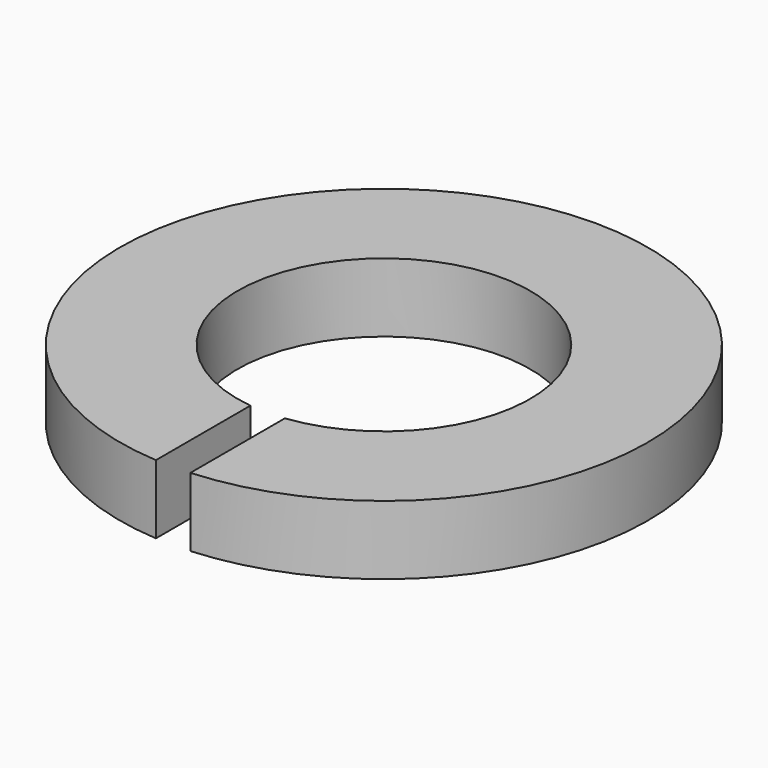
from build123d import *

# Parameters (mm, degrees)
PAD_DEPTH = 0.6


with BuildPart() as part:
    # Sketch → Pad (new body, symmetric)
    with BuildSketch(Plane.XY):
        with BuildLine():
            ThreePointArc((0.3, -2.532291), (0, 2.55), (-0.3, -2.532291))
            Line((-0.3, -4.590207), (-0.3, -2.532291))
            ThreePointArc((0.3, -4.590207), (0, 4.6), (-0.3, -4.590207))
            Line((0.3, -2.532291), (0.3, -4.590207))
        make_face()
    extrude(amount=PAD_DEPTH, both=True)


solid = part.part
